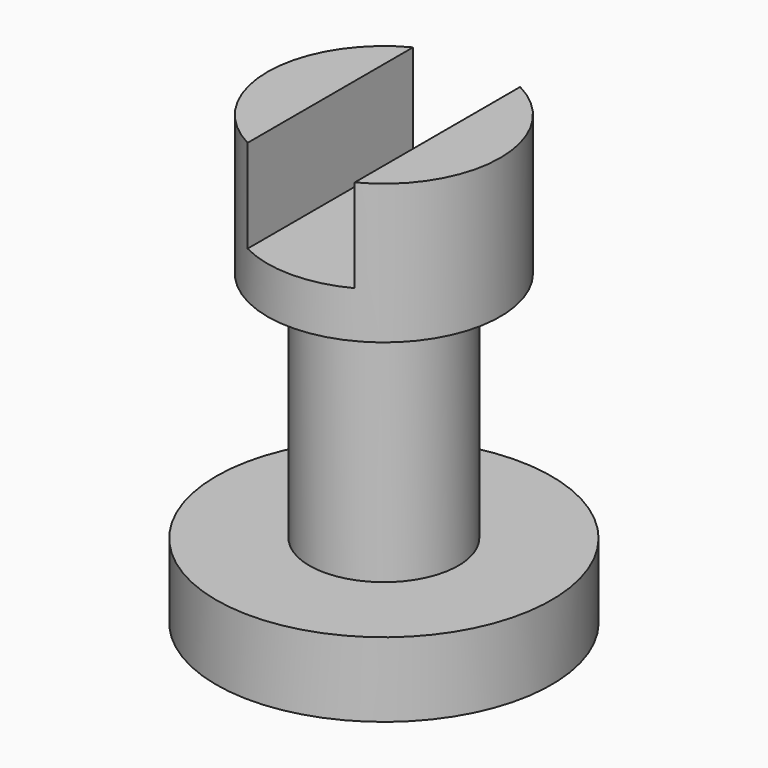
from build123d import *

# Parameters (mm, degrees)
F0_W     = 8
F0_H     = 25
F3_DEPTH = 10


with BuildPart() as f1:
    # F0 (on Front) → F1 (revolve)
    with BuildSketch(Plane.XZ):
        Polygon((-12.5, 0), (-8, 0), (0, 0), (0, 15), (-12.5, 15), align=None)
        with Locations((-4, -12.5)):
            Rectangle(F0_W, F0_H)
        Polygon((0, -25), (-8, -25), (-18, -25), (-18, -33), (0, -33), align=None)
    revolve(axis=Axis((0, 0, -11.281580478), (0, 0, -1)))

    # F2 (on face) → F3 (cut)
    with BuildSketch(Plane.XY.offset(15)):
        with BuildLine():
            ThreePointArc((5.75, 11.0989864402), (0, 12.5), (-5.75, 11.0989864402))
            Line((-5.75, 11.0989864402), (-5.75, -11.0989864402))
            ThreePointArc((-5.75, -11.0989864402), (0, -12.5), (5.75, -11.0989864402))
            Line((5.75, -11.0989864402), (5.75, 11.0989864402))
        make_face()
    extrude(amount=-F3_DEPTH, mode=Mode.SUBTRACT)


solid = f1.part
